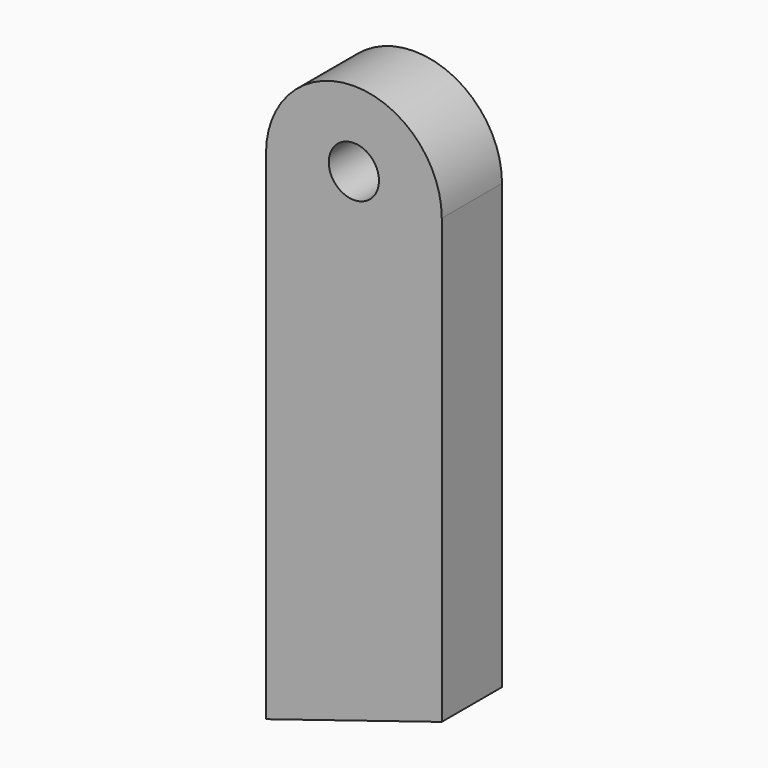
from build123d import *

# Parameters (mm, degrees)
F1_DEPTH = 38.1
F2_D     = 25.4


with BuildPart() as f1:
    # F0 (on Front) → F1 (new body)
    with BuildSketch(Plane.XZ):
        with BuildLine():
            ThreePointArc((-43.9476994082, 125.4738551164), (-88.3976994082, 169.9238551164), (-132.8476994082, 125.4738551164))
            Line((-132.8476994082, 125.4738551164), (-132.8476994082, -126.4941448836))
            Line((-132.8476994082, -126.4941448836), (-43.9476994082, -98.8048782953))
            Line((-43.9476994082, -98.8048782953), (-43.9476994082, 125.4738551164))
        make_face()
    extrude(amount=F1_DEPTH)

    # F2 (through all)
    with Locations(Plane(origin=(0, 0, 0), x_dir=(1, 0, 0), z_dir=(0, 1, 0))):
        with Locations((-88.3976994082, -131.8238551164)):
            Hole(F2_D / 2)


solid = f1.part
